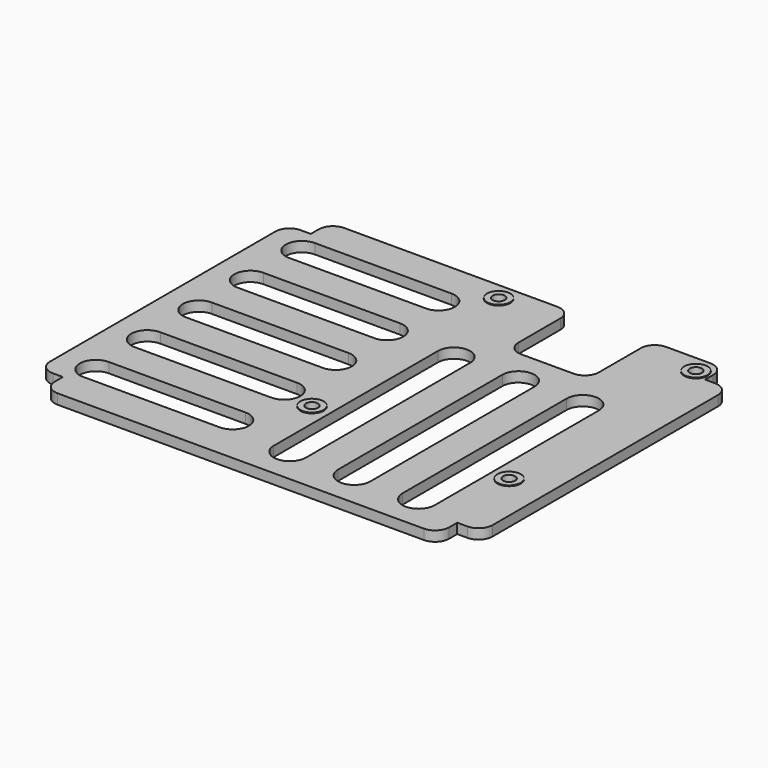
from build123d import *

# Parameters (mm, degrees)
SKETCH_W                           = 110
SKETCH_H                           = 89
PAD_DEPTH                          = 2.5
SKETCH001_R                        = 2.9
PAD001_DEPTH                       = 0.2
SKETCH002_R                        = 1.5
POCKET_DEPTH                       = 2.701
SKETCH003_W                        = 20
SKETCH003_H                        = 20
POCKET001_DEPTH                    = 2.501
POCKET002_DEPTH                    = 285.543682
POCKET002_LINEARPATTERN_2_DEPTH    = 285.543682
LINEARPATTERN001_COUNT             = 2
LINEARPATTERN001_PITCH             = 16
POCKET003_DEPTH                    = 285.543682
POCKET003_LINEARPATTERN002_2_DEPTH = 285.543682
POCKET003_LINEARPATTERN002_3_DEPTH = 285.543682
LINEARPATTERN003_COUNT             = 3
LINEARPATTERN003_PITCH             = 16
FILLET_R                           = 3.5
SKETCH006_W                        = 6
SKETCH006_H                        = 6
POCKET004_DEPTH                    = 285.543682
FILLET001_R                        = 3.5


with BuildPart() as part:
    # Sketch → Pad (new body)
    with BuildSketch(Plane.XY):
        with Locations((55, 0)):
            Rectangle(SKETCH_W, SKETCH_H)
    extrude(amount=PAD_DEPTH)

    # Sketch001 (on Face6 of Pad) → Pad001 (join)
    with BuildSketch(Plane.XY.offset(2.5)):
        with Locations((100.5, 40)):
            Circle(SKETCH001_R)
        with Locations((100.5, -18)):
            Circle(SKETCH001_R)
        with Locations((51.5, 40)):
            Circle(SKETCH001_R)
        with Locations((51.5, -18)):
            Circle(SKETCH001_R)
    extrude(amount=PAD001_DEPTH)

    # Sketch002 (on Face13 of Pad001) → Pocket (cut, through all)
    with BuildSketch(Plane.XY.offset(2.7)):
        with Locations((51.5, 40)):
            Circle(SKETCH002_R)
        with Locations((100.5, 40)):
            Circle(SKETCH002_R)
        with Locations((51.5, -18)):
            Circle(SKETCH002_R)
        with Locations((100.5, -18)):
            Circle(SKETCH002_R)
    extrude(amount=-POCKET_DEPTH, mode=Mode.SUBTRACT)

    # Sketch003 → Pocket001 (cut, through all)
    with BuildSketch(Plane.XY.offset(2.5)):
        with Locations((76, 34.5)):
            Rectangle(SKETCH003_W, SKETCH003_H)
    extrude(amount=-POCKET001_DEPTH, mode=Mode.SUBTRACT)

    # Sketch004 (on Face5 of Pocket001) → Pocket002 (cut, through all)
    with BuildSketch(Plane.XY.offset(2.5)):
        with BuildLine():
            ThreePointArc((80, 15.5), (76, 19.5), (72, 15.5))
            Line((72, 15.5), (72, -35.5))
            ThreePointArc((72, -35.5), (76, -39.5), (80, -35.5))
            Line((80, 15.5), (80, -35.5))
        make_face()
    pocket002 = extrude(amount=-POCKET002_DEPTH, mode=Mode.SUBTRACT)

    # Sketch004 LinearPattern 2 → Pocket002 LinearPattern 2 (cut, through all)
    with BuildSketch(Plane(origin=(16, 0, 2.5), x_dir=(1, 0, 0), z_dir=(0, 0, 1))):
        with BuildLine():
            ThreePointArc((80, 15.5), (76, 19.5), (72, 15.5))
            Line((72, 15.5), (72, -35.5))
            ThreePointArc((72, -35.5), (76, -39.5), (80, -35.5))
            Line((80, 15.5), (80, -35.5))
        make_face()
    pocket002_linearpattern_2 = extrude(amount=-POCKET002_LINEARPATTERN_2_DEPTH, mode=Mode.SUBTRACT)

    # LinearPattern001: Pocket002, Pocket002 LinearPattern 2 ×2
    with Locations(*[(-i * LINEARPATTERN001_PITCH, 0, 0) for i in range(1, LINEARPATTERN001_COUNT)]):
        add(pocket002, mode=Mode.SUBTRACT)
        add(pocket002_linearpattern_2, mode=Mode.SUBTRACT)

    # Sketch005 (on Face5 of MultiTransform) → Pocket003 (cut, through all)
    with BuildSketch(Plane.XY.offset(2.5)):
        with BuildLine():
            ThreePointArc((9, 4), (5, 0), (9, -4))
            Line((9, -4), (43, -4))
            ThreePointArc((43, -4), (47, 0), (43, 4))
            Line((9, 4), (43, 4))
        make_face()
    pocket003 = extrude(amount=-POCKET003_DEPTH, mode=Mode.SUBTRACT)

    # Sketch005 LinearPattern002 2 → Pocket003 LinearPattern002 2 (cut, through all)
    with BuildSketch(Plane(origin=(0, 16, 2.5), x_dir=(1, 0, 0), z_dir=(0, 0, 1))):
        with BuildLine():
            ThreePointArc((9, 4), (5, 0), (9, -4))
            Line((9, -4), (43, -4))
            ThreePointArc((43, -4), (47, 0), (43, 4))
            Line((9, 4), (43, 4))
        make_face()
    pocket003_linearpattern002_2 = extrude(amount=-POCKET003_LINEARPATTERN002_2_DEPTH, mode=Mode.SUBTRACT)

    # Sketch005 LinearPattern002 3 → Pocket003 LinearPattern002 3 (cut, through all)
    with BuildSketch(Plane(origin=(0, 32, 2.5), x_dir=(1, 0, 0), z_dir=(0, 0, 1))):
        with BuildLine():
            ThreePointArc((9, 4), (5, 0), (9, -4))
            Line((9, -4), (43, -4))
            ThreePointArc((43, -4), (47, 0), (43, 4))
            Line((9, 4), (43, 4))
        make_face()
    pocket003_linearpattern002_3 = extrude(amount=-POCKET003_LINEARPATTERN002_3_DEPTH, mode=Mode.SUBTRACT)

    # LinearPattern003: Pocket003, Pocket003 LinearPattern002 2, Pocket003 LinearPattern002 3 ×3
    with Locations(*[(0, -i * LINEARPATTERN003_PITCH, 0) for i in range(1, LINEARPATTERN003_COUNT)]):
        add(pocket003, mode=Mode.SUBTRACT)
        add(pocket003_linearpattern002_2, mode=Mode.SUBTRACT)
        add(pocket003_linearpattern002_3, mode=Mode.SUBTRACT)

    # Fillet
    fillet_edges = [part.edges().sort_by_distance(p)[0] for p in [
        (110, 44.5, 1.25),
        (66, 44.5, 1.25),
        (66, 24.5, 1.25),
        (110, -44.5, 1.25),
        (86, 44.5, 1.25),
        (86, 24.5, 1.25),
        (0, 44.5, 1.25),
        (0, -44.5, 1.25),
    ]]
    fillet(fillet_edges, radius=FILLET_R)

    # Sketch006 (on Face5 of Fillet) → Pocket004 (cut, through all)
    with BuildSketch(Plane.XY.offset(2.5)):
        with Locations((107, 41.5)):
            Rectangle(SKETCH006_W, SKETCH006_H)
        with Locations((3, 41.5)):
            Rectangle(SKETCH006_W, SKETCH006_H)
    pocket004 = extrude(amount=-POCKET004_DEPTH, mode=Mode.SUBTRACT)

    # Mirrored: Pocket004 across XZ
    add(pocket004.mirror(Plane.XZ), mode=Mode.SUBTRACT)

    # Fillet001
    fillet001_edges = [part.edges().sort_by_distance(p)[0] for p in [
        (110, -38.5, 1.25),
        (104, -44.5, 1.25),
        (110, 38.5, 1.25),
        (104, 44.5, 1.25),
        (6, 44.5, 1.25),
        (0, 38.5, 1.25),
        (0, -38.5, 1.25),
        (6, -44.5, 1.25),
    ]]
    fillet(fillet001_edges, radius=FILLET001_R)


solid = part.part
